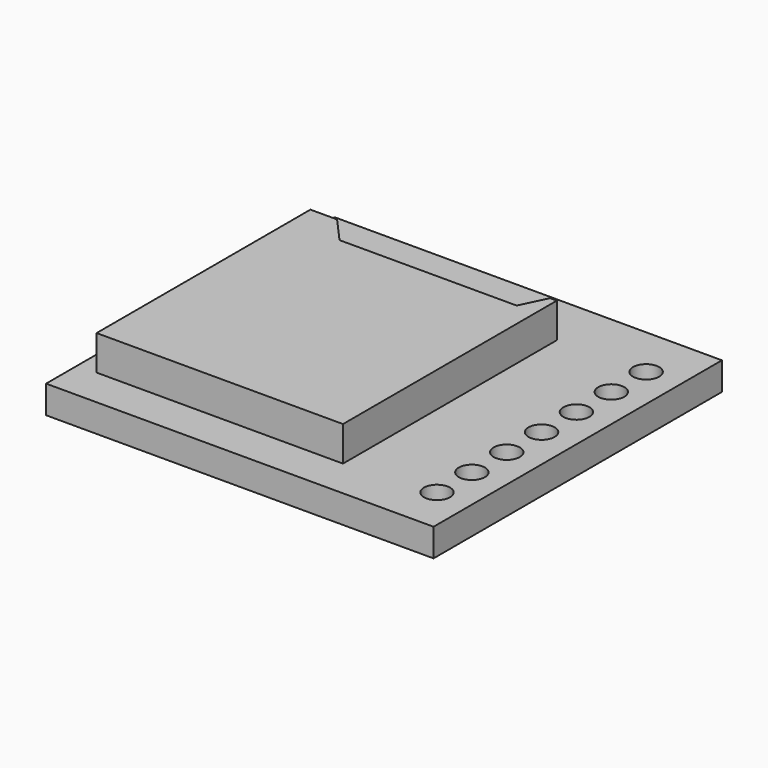
from build123d import *

# Parameters (mm, degrees)
F0_W     = 22.25
F0_H     = 20.7
F1_DEPTH = 1.6
F3_DEPTH = 2
F4_R     = 0.75
F5_DEPTH = 25


with BuildPart() as f1:
    # F0 (on Top) → F1 (new body)
    with BuildSketch(Plane.XY):
        Rectangle(F0_W, F0_H)
    extrude(amount=F1_DEPTH)

    # F2 (on face) → F3 (join)
    with BuildSketch(Plane.XY.offset(1.6)):
        Polygon((-8.493273, 7.25), (-10.025, 7.25), (-10.025, 5.75), (-10.025, -8.1), (4.125, -8.1), (4.125, 5.75), (4.125, 7.25), (3.738537, 7.25), (3.01568, 5.75), (-7.154986, 5.75), align=None)
    extrude(amount=F3_DEPTH)

    # F4 (on face) → F5 (cut)
    with BuildSketch(Plane.XY.offset(1.6)):
        with Locations((9.17196, 7.35)):
            Circle(F4_R)
        with Locations((9.170717, 4.85)):
            Circle(F4_R)
        with Locations((9.169475, 2.350001)):
            Circle(F4_R)
        with Locations((9.168232, -0.149999)):
            Circle(F4_R)
        with Locations((9.16699, -2.649999)):
            Circle(F4_R)
        with Locations((9.165747, -5.149998)):
            Circle(F4_R)
        with Locations((9.164505, -7.649998)):
            Circle(F4_R)
    extrude(amount=-F5_DEPTH, mode=Mode.SUBTRACT)


solid = f1.part
